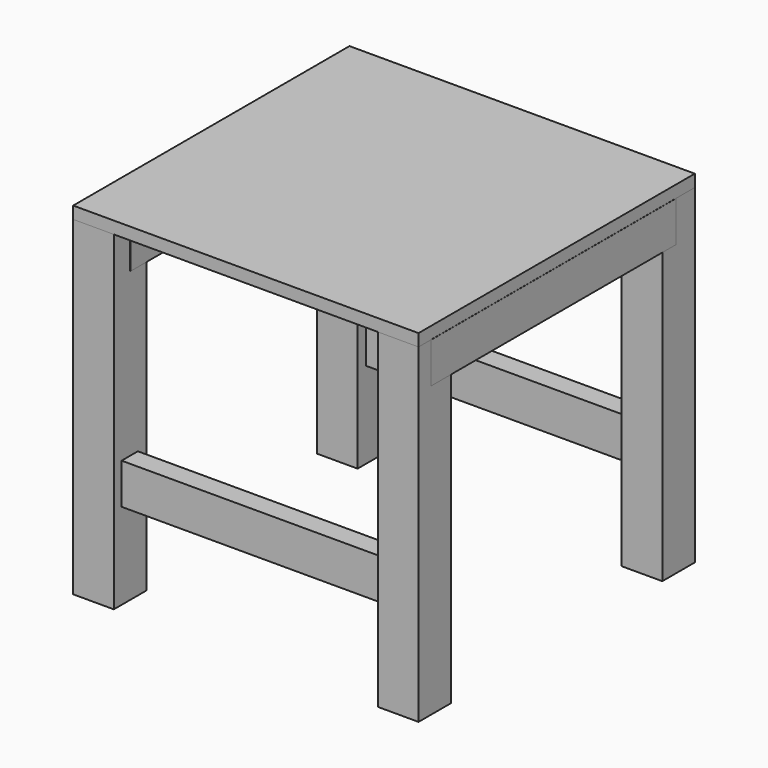
from build123d import *

# Parameters (mm, degrees)
F0_W     = 40
F0_H     = 40
F1_DEPTH = 325
F2_W     = 40.433705
F2_H     = 301.773489
F3_DEPTH = 40
F6_DEPTH = 40
F7_W     = 340
F7_H     = 340
F8_DEPTH = 12


with BuildPart() as f1:
    # F0 (on Top) → F1 (new body)
    with BuildSketch(Plane.XY):
        with Locations((-150, -150)):
            Rectangle(F0_W, F0_H)
        with Locations((-150, 150)):
            Rectangle(F0_W, F0_H)
        with Locations((150, -150)):
            Rectangle(F0_W, F0_H)
        with Locations((150, 150)):
            Rectangle(F0_W, F0_H)
    extrude(amount=-F1_DEPTH)


with BuildPart() as f3:
    # F2 (on face) → F3 (new body)
    with BuildSketch(Plane.XY):
        Polygon((-130, -130), (-130, -150), (-129.683703, -150), (-129.683703, 138.559386), (-170, 138.559386), (-170, -130), align=None)
        with Locations((149.900555, -3.944754)):
            Rectangle(F2_W, F2_H)
    extrude(amount=-F3_DEPTH)


with BuildPart() as f6:
    # F5 (on offset) → F6 (new body)
    with BuildSketch(Plane.XY.offset(-200)):
        Polygon((-164.699642, -140.433019), (-164.699642, -160.433019), (-112.794841, -160.433019), (150.452346, -160.433019), (150.452346, -140.433019), align=None)
        Polygon((152.424738, 160.255536), (-152.307317, 160.255536), (-159.210637, 160.255536), (-159.210637, 140.255536), (152.424738, 140.255536), align=None)
    extrude(amount=-F6_DEPTH)


with BuildPart() as f8:
    # F7 (on Top) → F8 (new body)
    with BuildSketch(Plane.XY):
        Rectangle(F7_W, F7_H)
    extrude(amount=F8_DEPTH)


solid = Compound([f1.part, f3.part, f6.part, f8.part])
